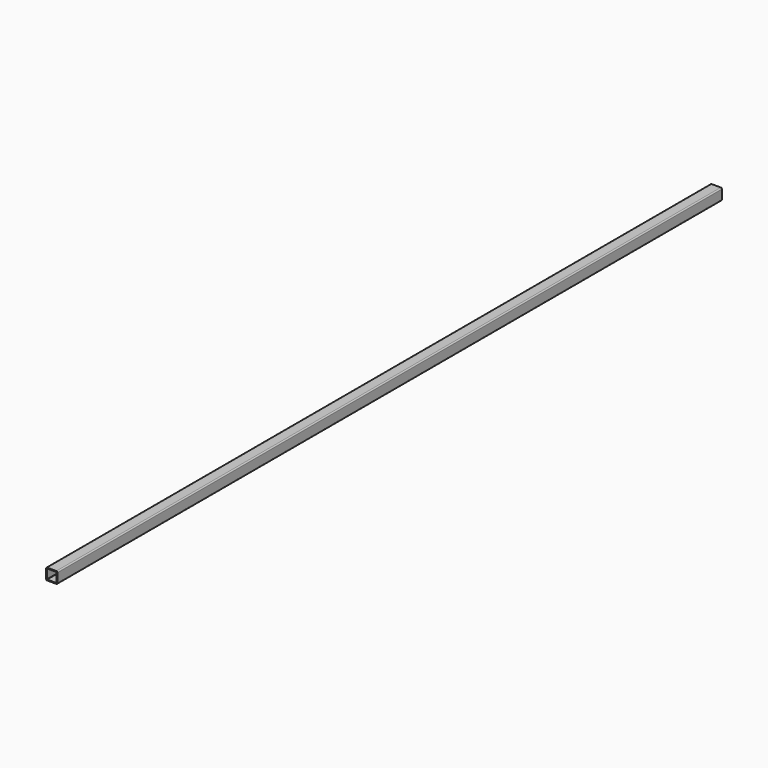
from build123d import *

# Parameters (mm, degrees)
F1_DEPTH = 2920


with BuildPart() as f1:
    # F0 (on Front) → F1 (new body)
    with BuildSketch(Plane.XZ):
        with BuildLine():
            ThreePointArc((20, 16), (18.828427, 18.828427), (16, 20))
            Line((16, 20), (-16, 20))
            ThreePointArc((-16, 20), (-18.828427, 18.828427), (-20, 16))
            Line((-20, 16), (-20, -16))
            ThreePointArc((-20, -16), (-18.828427, -18.828427), (-16, -20))
            Line((-16, -20), (16, -20))
            ThreePointArc((16, -20), (18.828427, -18.828427), (20, -16))
            Line((20, -16), (20, 16))
        make_face()
        with BuildLine():
            Line((-16, 17), (16, 17))
            ThreePointArc((16, 17), (16.707107, 16.707107), (17, 16))
            Line((17, 16), (17, -16))
            ThreePointArc((17, -16), (16.707107, -16.707107), (16, -17))
            Line((16, -17), (-16, -17))
            ThreePointArc((-16, -17), (-16.707107, -16.707107), (-17, -16))
            Line((-17, -16), (-17, 16))
            ThreePointArc((-17, 16), (-16.707107, 16.707107), (-16, 17))
        make_face(mode=Mode.SUBTRACT)
    extrude(amount=F1_DEPTH)


solid = f1.part
